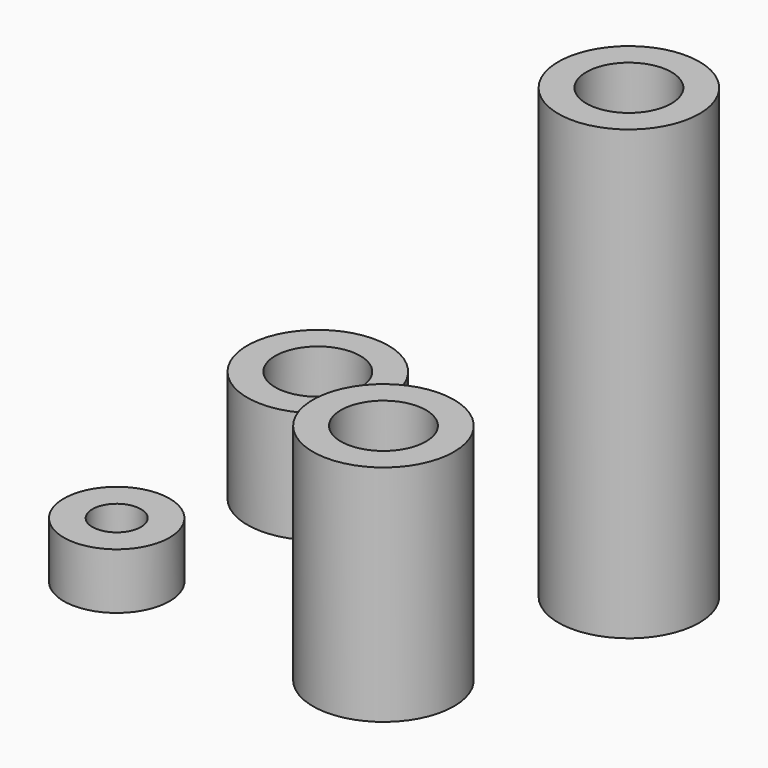
from build123d import *

# Parameters (mm, degrees)
F0_R     = 4
F0_R_2   = 2.413
F4_DEPTH = 25.4
F1_R     = 4
F1_R_2   = 2.413
F5_DEPTH = 12.7
F2_R     = 4
F2_R_2   = 2.413
F6_DEPTH = 6.35
F3_R     = 3
F3_R_2   = 1.375
F7_DEPTH = 3.175


with BuildPart() as f4:
    # F0 (on Top) → F4 (new body)
    with BuildSketch(Plane.XY):
        with Locations((3.478641, 13.046432)):
            Circle(F0_R)
        with Locations((3.478641, 13.046432)):
            Circle(F0_R_2, mode=Mode.SUBTRACT)
    extrude(amount=F4_DEPTH)


with BuildPart() as f5:
    # F1 (on Top) → F5 (new body)
    with BuildSketch(Plane.XY):
        Circle(F1_R)
        Circle(F1_R_2, mode=Mode.SUBTRACT)
    extrude(amount=F5_DEPTH)


with BuildPart() as f6:
    # F2 (on Top) → F6 (new body)
    with BuildSketch(Plane.XY):
        with Locations((-13.136519, 11.768044)):
            Circle(F2_R)
        with Locations((-13.136519, 11.768044)):
            Circle(F2_R_2, mode=Mode.SUBTRACT)
    extrude(amount=F6_DEPTH)


with BuildPart() as f7:
    # F3 (on Top) → F7 (new body)
    with BuildSketch(Plane.XY):
        with Locations((-15.126723, 0)):
            Circle(F3_R)
        with Locations((-15.126723, 0)):
            Circle(F3_R_2, mode=Mode.SUBTRACT)
    extrude(amount=F7_DEPTH)


solid = Compound([f4.part, f5.part, f6.part, f7.part])
